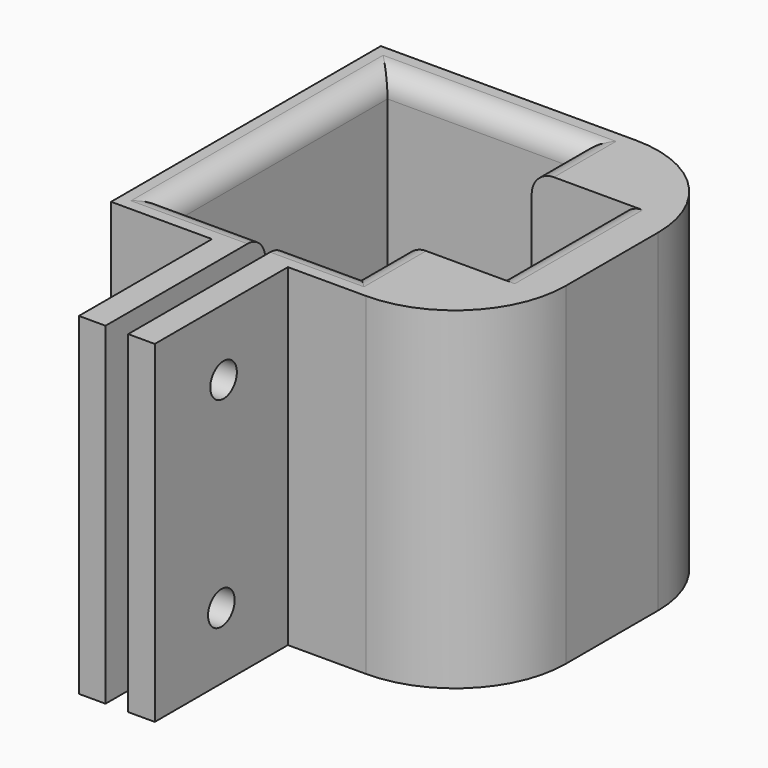
from build123d import *

# Parameters (mm, degrees)
F0_W     = 2.4
F0_H     = 3
F0_H_2   = 15
F1_DEPTH = 30
F2_R     = 1.5
F3_DEPTH = 25
F4_R     = 2
F5_R     = 10


with BuildPart() as f1:
    # F0 (on Top) → F1 (new body)
    with BuildSketch(Plane.XY):
        Polygon((-12.036903, -21.621074), (-12.036903, 2.778926), (4.963097, 2.778926), (4.963097, -2.221074), (12.963097, -2.221074), (12.963097, -16.621074), (4.963097, -16.621074), (4.963097, -21.621074), (0.903097, -21.621074), (0.903097, -24.621074), (17.963097, -24.621074), (17.963097, 5.778926), (-15.036903, 5.778926), (-15.036903, -24.621074), (-5.936903, -24.621074), (-5.936903, -21.621074), align=None)
        with Locations((-0.296903, -23.121074)):
            Rectangle(F0_W, F0_H)
        with Locations((-0.296903, -32.121074)):
            Rectangle(F0_W, F0_H_2)
        with Locations((-4.736903, -23.121074)):
            Rectangle(F0_W, F0_H)
        with Locations((-4.736903, -32.121074)):
            Rectangle(F0_W, F0_H_2)
    extrude(amount=F1_DEPTH)

    # F2 (on face) → F3 (cut)
    with BuildSketch(Plane(origin=(-5.936903, 0, 0), x_dir=(0, -1, 0), z_dir=(-1, 0, 0))):
        with Locations((32.121074, 6)):
            Circle(F2_R)
        with Locations((31.869072, 24)):
            Circle(F2_R)
    extrude(amount=-F3_DEPTH, mode=Mode.SUBTRACT)

    # F4
    f4_edges = [f1.edges().sort_by_distance(p)[0] for p in [
        (-12.036903, -9.421074, 30),
        (-3.536903, 2.778926, 30),
        (4.963097, 0.278926, 30),
        (4.963097, -19.121074, 30),
        (1.733097, -21.621074, 30),
        (-7.786903, -21.621074, 30),
        (12.963097, -9.421074, 30),
        (-3.536903, 2.778926, 0),
        (-12.036903, -9.421074, 0),
        (-7.786903, -21.621074, 0),
        (1.733097, -21.621074, 0),
        (4.963097, -19.121074, 0),
        (4.963097, 0.278926, 0),
    ]]
    fillet(f4_edges, radius=F4_R)

    # F5
    f5_edges = [f1.edges().sort_by_distance(p)[0] for p in [
        (17.963097, 5.778926, 15),
        (17.963097, -24.621074, 15),
    ]]
    fillet(f5_edges, radius=F5_R)


solid = f1.part
